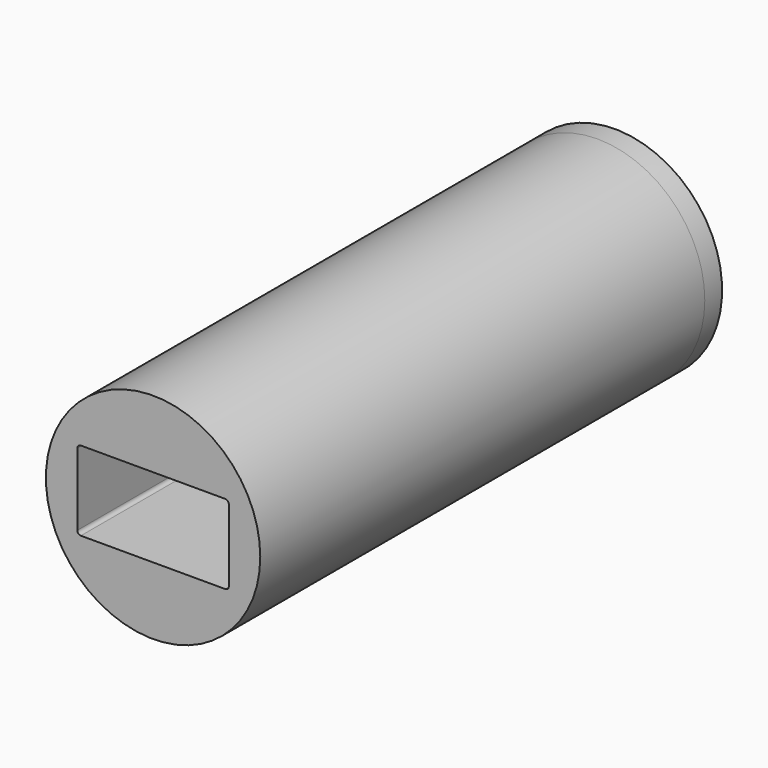
from build123d import *

# Parameters (mm, degrees)
F3_R     = 14.8532695911
F3_W     = 21
F3_H     = 11
F4_DEPTH = 77
F5_R     = 14.8532695911
F6_DEPTH = 3
F7_R     = 0.5


with BuildPart() as f4:
    # F3 (on Front) → F4 (new body)
    with BuildSketch(Plane.XZ):
        Circle(F3_R)
        Rectangle(F3_W, F3_H, mode=Mode.SUBTRACT)
    extrude(amount=-F4_DEPTH)

    # F5 (on face) → F6 (join)
    with BuildSketch(Plane(origin=(0, 77, 0), x_dir=(-1, 0, 0), z_dir=(0, 1, 0))):
        Circle(F5_R)
    extrude(amount=F6_DEPTH)

    # F7
    f7_edges = [f4.edges().sort_by_distance(p)[0] for p in [
        (-10.5, 77, 0),
        (0, 77, -5.5),
        (10.5, 77, 0),
        (0, 77, 5.5),
        (-10.5, 38.5, -5.5),
        (-10.5, 38.5, 5.5),
        (10.5, 38.5, 5.5),
        (10.5, 38.5, -5.5),
    ]]
    fillet(f7_edges, radius=F7_R)


solid = f4.part
